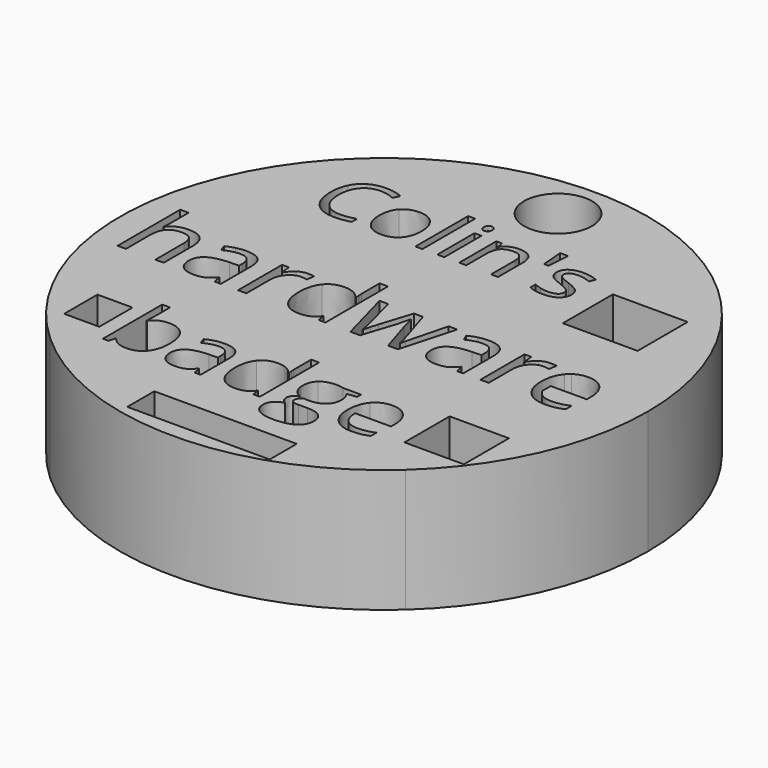
from build123d import *

# Parameters (mm, degrees)
F0_W     = 0.5073064225
F0_H     = 3.3478314006
F0_H_2   = 4.7534318543
F0_W_2   = 10.2797708241
F0_H_3   = 2.4410765618
F1_DEPTH = 8.89


with BuildPart() as f1:
    # F0 (on Top) → F1 (new body)
    with BuildSketch(Plane.XY):
        with BuildLine():
            ThreePointArc((12.8299963961, -14.0816793202), (17.4257558135, -7.6971120771), (19.05, 0))
            ThreePointArc((19.05, 0), (17.4257558135, 7.6971120771), (12.8299963961, 14.0816793202))
            Line((12.8299963961, 14.0816793202), (12.8299963961, 9.9383760244))
            Line((12.8299963961, 9.9383760244), (13.9713427052, 9.9383760244))
            Line((13.9713427052, 9.9383760244), (13.9713427052, 5.4203812033))
            Line((13.9713427052, 5.4203812033), (12.8299963961, 5.4203812033))
            Line((12.8299963961, 5.4203812033), (12.8299963961, 0.8872769215))
            add(Edge.make_bspline(
                [(12.8299963961, 0.8872769215), (13.2364570431, 1.1805184719), (13.8113436061, 1.1805184719)],
                knots=[0.2801248744, 0.2801248744, 0.2801248744, 1, 1, 1], degree=2))
            add(Edge.make_bspline(
                [(13.8113436061, 1.1805184719), (14.5577021785, 1.1805184719), (14.9929812837, 0.6889432691)],
                knots=[0, 0, 0, 1, 1, 1], degree=2))
            add(Edge.make_bspline(
                [(14.9929812837, 0.6889432691), (15.4282603889, 0.1973680663), (15.4282603889, -0.6081884644)],
                knots=[0, 0, 0, 1, 1, 1], degree=2))
            Line((15.4282603889, -0.6081884644), (15.4282603889, -0.9889125884))
            Line((15.4282603889, -0.9889125884), (12.8299963961, -0.9889125884))
            Line((12.8299963961, -0.9889125884), (12.8299963961, -1.7158638181))
            add(Edge.make_bspline(
                [(12.8299963961, -1.7158638181), (12.9127583487, -1.9095613389), (13.0440916367, -2.0515739773)],
                knots=[0.6084921973, 0.6084921973, 0.6084921973, 1, 1, 1], degree=2))
            add(Edge.make_bspline(
                [(13.0440916367, -2.0515739773), (13.3795467338, -2.4143065649), (13.9889374811, -2.4143065649)],
                knots=[0, 0, 0, 1, 1, 1], degree=2))
            add(Edge.make_bspline(
                [(13.9889374811, -2.4143065649), (14.6308290682, -2.4143065649), (15.2576309797, -2.1461746361)],
                knots=[0, 0, 0, 1, 1, 1], degree=2))
            Line((15.2576309797, -2.1461746361), (15.2576309797, -2.683599238))
            add(Edge.make_bspline(
                [(15.2576309797, -2.683599238), (14.9384263026, -2.8205670631), (14.6540439538, -2.8809257657)],
                knots=[0, 0, 0, 1, 1, 1], degree=2))
            add(Edge.make_bspline(
                [(14.6540439538, -2.8809257657), (14.3696616051, -2.9412844683), (13.9668833397, -2.9412844683)],
                knots=[0, 0, 0, 1, 1, 1], degree=2))
            add(Edge.make_bspline(
                [(13.9668833397, -2.9412844683), (13.2884940449, -2.9412844683), (12.8299963961, -2.6226308466)],
                knots=[0, 0, 0, 0.7700176105, 0.7700176105, 0.7700176105], degree=2))
            Line((12.8299963961, -2.6226308466), (12.8299963961, -7.4412599206))
            Line((12.8299963961, -7.4412599206), (14.9729559198, -7.4412599206))
            Line((14.9729559198, -7.4412599206), (14.9729559198, -11.5108992904))
            Line((14.9729559198, -11.5108992904), (12.8299963961, -11.5108992904))
            Line((12.8299963961, -11.5108992904), (12.8299963961, -14.0816793202))
        make_face()
        with BuildLine():
            Line((1.8340394776, 14.0816793202), (12.8299963961, 14.0816793202))
            ThreePointArc((12.8299963961, 14.0816793202), (0, 19.05), (-12.8299963961, 14.0816793202))
            Line((-12.8299963961, 14.0816793202), (-1.8340394776, 14.0816793202))
            ThreePointArc((-1.8340394776, 14.0816793202), (-0.8675546653, 17.9941748635), (2.4487597285, 15.7042462379))
            ThreePointArc((2.4487597285, 15.7042462379), (2.2899286257, 14.8366915726), (1.8340394776, 14.0816793202))
        make_face()
        with BuildLine():
            Line((12.8299963961, 9.9383760244), (12.8299963961, 14.0816793202))
            Line((12.8299963961, 14.0816793202), (1.8340394776, 14.0816793202))
            ThreePointArc((1.8340394776, 14.0816793202), (0, 13.2554865094), (-1.8340394776, 14.0816793202))
            Line((-1.8340394776, 14.0816793202), (-12.8299963961, 14.0816793202))
            Line((-12.8299963961, 14.0816793202), (-12.8299963961, -8.2348110154))
            Line((-12.8299963961, -8.2348110154), (-11.5638854583, -8.2348110154))
            Line((-11.5638854583, -8.2348110154), (-11.5638854583, -11.2371081486))
            Line((-11.5638854583, -11.2371081486), (-12.8299963961, -11.2371081486))
            Line((-12.8299963961, -11.2371081486), (-12.8299963961, -14.0816793202))
            Line((-12.8299963961, -14.0816793202), (12.8299963961, -14.0816793202))
            Line((12.8299963961, -14.0816793202), (12.8299963961, -11.5108992904))
            Line((12.8299963961, -11.5108992904), (10.6870368724, -11.5108992904))
            Line((10.6870368724, -11.5108992904), (10.6870368724, -7.4412599206))
            Line((10.6870368724, -7.4412599206), (12.8299963961, -7.4412599206))
            Line((12.8299963961, -7.4412599206), (12.8299963961, -2.6226308466))
            add(Edge.make_bspline(
                [(12.8299963961, -2.6226308466), (12.6930561711, -2.5274580605), (12.5757313195, -2.4038598664)],
                knots=[0.7700176105, 0.7700176105, 0.7700176105, 1, 1, 1], degree=2))
            add(Edge.make_bspline(
                [(12.5757313195, -2.4038598664), (12.0655842082, -1.8664352645), (12.0655842082, -0.9134642102)],
                knots=[0, 0, 0, 1, 1, 1], degree=2))
            add(Edge.make_bspline(
                [(12.0655842082, -0.9134642102), (12.0655842082, 0.0487927984), (12.5391678747, 0.6146556351)],
                knots=[0, 0, 0, 1, 1, 1], degree=2))
            add(Edge.make_bspline(
                [(12.5391678747, 0.6146556351), (12.6718304398, 0.7731678912), (12.8299963961, 0.8872769215)],
                knots=[0, 0, 0, 0.2801248744, 0.2801248744, 0.2801248744], degree=2))
            Line((12.8299963961, 0.8872769215), (12.8299963961, 5.4203812033))
            Line((12.8299963961, 5.4203812033), (8.571988903, 5.4203812033))
            Line((8.571988903, 5.4203812033), (8.571988903, 9.9383760244))
            Line((8.571988903, 9.9383760244), (12.8299963961, 9.9383760244))
        make_face()
        with BuildLine():
            add(Edge.make_bspline(
                [(-9.9190947652, -8.9869904447), (-9.5210205745, -8.423968385), (-8.7369683703, -8.423968385)],
                knots=[0, 0, 0, 1, 1, 1], degree=2))
            add(Edge.make_bspline(
                [(-8.7369683703, -8.423968385), (-7.9947029596, -8.423968385), (-7.5839827656, -8.9309081692)],
                knots=[0, 0, 0, 1, 1, 1], degree=2))
            add(Edge.make_bspline(
                [(-7.5839827656, -8.9309081692), (-7.1732625717, -9.4378479534), (-7.1732625717, -10.3648549775)],
                knots=[0, 0, 0, 1, 1, 1], degree=2))
            add(Edge.make_bspline(
                [(-7.1732625717, -10.3648549775), (-7.1732625717, -11.2929616541), (-7.587281723, -11.8070491793)],
                knots=[0, 0, 0, 1, 1, 1], degree=2))
            add(Edge.make_bspline(
                [(-7.587281723, -11.8070491793), (-8.0013008743, -12.3211367045), (-8.7369683703, -12.3211367045)],
                knots=[0, 0, 0, 1, 1, 1], degree=2))
            add(Edge.make_bspline(
                [(-8.7369683703, -12.3211367045), (-9.1053519445, -12.3211367045), (-9.4094058498, -12.1853296256)],
                knots=[0, 0, 0, 1, 1, 1], degree=2))
            add(Edge.make_bspline(
                [(-9.4094058498, -12.1853296256), (-9.7134597551, -12.0495225468), (-9.9190947652, -11.7669118645)],
                knots=[0, 0, 0, 1, 1, 1], degree=2))
            Line((-9.9190947652, -11.7669118645), (-9.9608815587, -11.7669118645))
            Line((-9.9608815587, -11.7669118645), (-10.0807436769, -12.2518585995))
            Line((-10.0807436769, -12.2518585995), (-10.4898143921, -12.2518585995))
            Line((-10.4898143921, -12.2518585995), (-10.4898143921, -6.9042486848))
            Line((-10.4898143921, -6.9042486848), (-9.9190947652, -6.9042486848))
            Line((-9.9190947652, -6.9042486848), (-9.9190947652, -8.2040378929))
            add(Edge.make_bspline(
                [(-9.9190947652, -8.2040378929), (-9.9190947652, -8.6405999197), (-9.9465860767, -8.9869904447)],
                knots=[0, 0, 0, 1, 1, 1], degree=2))
            Line((-9.9465860767, -8.9869904447), (-9.9190947652, -8.9869904447))
        make_face(mode=Mode.SUBTRACT)
        with BuildLine():
            Line((-3.4377431639, -12.2518585995), (-3.8611093611, -12.2518585995))
            Line((-3.8611093611, -12.2518585995), (-3.9743735645, -11.7152281988))
            Line((-3.9743735645, -11.7152281988), (-4.001864876, -11.7152281988))
            add(Edge.make_bspline(
                [(-4.001864876, -11.7152281988), (-4.2833759059, -12.0693162911), (-4.5632374571, -12.1952264978)],
                knots=[0, 0, 0, 1, 1, 1], degree=2))
            add(Edge.make_bspline(
                [(-4.5632374571, -12.1952264978), (-4.8430990082, -12.3211367045), (-5.2631662481, -12.3211367045)],
                knots=[0, 0, 0, 1, 1, 1], degree=2))
            add(Edge.make_bspline(
                [(-5.2631662481, -12.3211367045), (-5.8228893504, -12.3211367045), (-6.1406889114, -12.0319281074)],
                knots=[0, 0, 0, 1, 1, 1], degree=2))
            add(Edge.make_bspline(
                [(-6.1406889114, -12.0319281074), (-6.4584884725, -11.7427195103), (-6.4584884725, -11.2104877195)],
                knots=[0, 0, 0, 1, 1, 1], degree=2))
            add(Edge.make_bspline(
                [(-6.4584884725, -11.2104877195), (-6.4584884725, -10.0701481182), (-4.6341650407, -10.0151654951)],
                knots=[0, 0, 0, 1, 1, 1], degree=2))
            Line((-4.6341650407, -10.0151654951), (-3.9952669613, -9.9942720984))
            Line((-3.9952669613, -9.9942720984), (-3.9952669613, -9.7600461243))
            add(Edge.make_bspline(
                [(-3.9952669613, -9.7600461243), (-3.9952669613, -9.3168861828), (-4.1855068369, -9.1057529104)],
                knots=[0, 0, 0, 1, 1, 1], degree=2))
            add(Edge.make_bspline(
                [(-4.1855068369, -9.1057529104), (-4.3757467126, -8.894619638), (-4.7958139524, -8.894619638)],
                knots=[0, 0, 0, 1, 1, 1], degree=2))
            add(Edge.make_bspline(
                [(-4.7958139524, -8.894619638), (-5.2664652054, -8.894619638), (-5.860277534, -9.1827285826)],
                knots=[0, 0, 0, 1, 1, 1], degree=2))
            Line((-5.860277534, -9.1827285826), (-6.0362219277, -8.7461665559))
            add(Edge.make_bspline(
                [(-6.0362219277, -8.7461665559), (-5.7580098552, -8.5955141688), (-5.4264646384, -8.5097412769)],
                knots=[0, 0, 0, 1, 1, 1], degree=2))
            add(Edge.make_bspline(
                [(-5.4264646384, -8.5097412769), (-5.0949194216, -8.423968385), (-4.7606250737, -8.423968385)],
                knots=[0, 0, 0, 1, 1, 1], degree=2))
            add(Edge.make_bspline(
                [(-4.7606250737, -8.423968385), (-4.087637768, -8.423968385), (-3.7626904659, -8.722524028)],
                knots=[0, 0, 0, 1, 1, 1], degree=2))
            add(Edge.make_bspline(
                [(-3.7626904659, -8.722524028), (-3.4377431639, -9.021079671), (-3.4377431639, -9.6808711472)],
                knots=[0, 0, 0, 1, 1, 1], degree=2))
            Line((-3.4377431639, -9.6808711472), (-3.4377431639, -12.2518585995))
        make_face(mode=Mode.SUBTRACT)
        with BuildLine():
            Line((0.3758515686, -12.2518585995), (0.2999755488, -11.7471181202))
            Line((0.2999755488, -11.7471181202), (0.26918528, -11.7471181202))
            add(Edge.make_bspline(
                [(0.26918528, -11.7471181202), (-0.1255899533, -12.3211367045), (-0.9129411149, -12.3211367045)],
                knots=[0, 0, 0, 1, 1, 1], degree=2))
            add(Edge.make_bspline(
                [(-0.9129411149, -12.3211367045), (-1.6519075683, -12.3211367045), (-2.0626277622, -11.815846399)],
                knots=[0, 0, 0, 1, 1, 1], degree=2))
            add(Edge.make_bspline(
                [(-2.0626277622, -11.815846399), (-2.4733479562, -11.3105560934), (-2.4733479562, -10.3791504595)],
                knots=[0, 0, 0, 1, 1, 1], degree=2))
            add(Edge.make_bspline(
                [(-2.4733479562, -10.3791504595), (-2.4733479562, -9.4477448256), (-2.0609782835, -8.9320078217)],
                knots=[0, 0, 0, 1, 1, 1], degree=2))
            add(Edge.make_bspline(
                [(-2.0609782835, -8.9320078217), (-1.6486086109, -8.4162708178), (-0.9129411149, -8.4162708178)],
                knots=[0, 0, 0, 1, 1, 1], degree=2))
            add(Edge.make_bspline(
                [(-0.9129411149, -8.4162708178), (-0.1464833501, -8.4162708178), (0.2625873652, -8.9737946152)],
                knots=[0, 0, 0, 1, 1, 1], degree=2))
            Line((0.2625873652, -8.9737946152), (0.3076731161, -8.9737946152))
            Line((0.3076731161, -8.9737946152), (0.2834807619, -8.7021804575))
            Line((0.2834807619, -8.7021804575), (0.26918528, -8.4371642145))
            Line((0.26918528, -8.4371642145), (0.26918528, -6.9042486848))
            Line((0.26918528, -6.9042486848), (0.8399049069, -6.9042486848))
            Line((0.8399049069, -6.9042486848), (0.8399049069, -12.2518585995))
            Line((0.8399049069, -12.2518585995), (0.3758515686, -12.2518585995))
        make_face(mode=Mode.SUBTRACT)
        with BuildLine():
            Line((-9.4801511273, -2.8681575786), (-9.9270376753, -2.8681575786))
            Line((-9.9270376753, -2.8681575786), (-10.0465943362, -2.3017143697))
            Line((-10.0465943362, -2.3017143697), (-10.0756129432, -2.3017143697))
            add(Edge.make_bspline(
                [(-10.0756129432, -2.3017143697), (-10.372763479, -2.6754740281), (-10.6681728984, -2.8083792482)],
                knots=[0, 0, 0, 1, 1, 1], degree=2))
            add(Edge.make_bspline(
                [(-10.6681728984, -2.8083792482), (-10.9635823178, -2.9412844683), (-11.406986633, -2.9412844683)],
                knots=[0, 0, 0, 1, 1, 1], degree=2))
            add(Edge.make_bspline(
                [(-11.406986633, -2.9412844683), (-11.9978054718, -2.9412844683), (-12.3332605688, -2.6360087225)],
                knots=[0, 0, 0, 1, 1, 1], degree=2))
            add(Edge.make_bspline(
                [(-12.3332605688, -2.6360087225), (-12.6687156659, -2.3307329767), (-12.6687156659, -1.768932745)],
                knots=[0, 0, 0, 1, 1, 1], degree=2))
            add(Edge.make_bspline(
                [(-12.6687156659, -1.768932745), (-12.6687156659, -0.565240926), (-10.7430409045, -0.507203712)],
                knots=[0, 0, 0, 1, 1, 1], degree=2))
            Line((-10.7430409045, -0.507203712), (-10.0686484775, -0.4851495707))
            Line((-10.0686484775, -0.4851495707), (-10.0686484775, -0.2379110389))
            add(Edge.make_bspline(
                [(-10.0686484775, -0.2379110389), (-10.0686484775, 0.2298689061), (-10.269457238, 0.452731808)],
                knots=[0, 0, 0, 1, 1, 1], degree=2))
            add(Edge.make_bspline(
                [(-10.269457238, 0.452731808), (-10.4702659986, 0.6755947099), (-10.9136703137, 0.6755947099)],
                knots=[0, 0, 0, 1, 1, 1], degree=2))
            add(Edge.make_bspline(
                [(-10.9136703137, 0.6755947099), (-11.4104688658, 0.6755947099), (-12.0372707773, 0.3714797084)],
                knots=[0, 0, 0, 1, 1, 1], degree=2))
            Line((-12.0372707773, 0.3714797084), (-12.2229898622, 0.8322951877))
            add(Edge.make_bspline(
                [(-12.2229898622, 0.8322951877), (-11.9293215592, 0.9913171542), (-11.5793571586, 1.0818552081)],
                knots=[0, 0, 0, 1, 1, 1], degree=2))
            add(Edge.make_bspline(
                [(-11.5793571586, 1.0818552081), (-11.229392758, 1.1723932619), (-10.8765264968, 1.1723932619)],
                knots=[0, 0, 0, 1, 1, 1], degree=2))
            add(Edge.make_bspline(
                [(-10.8765264968, 1.1723932619), (-10.1661509971, 1.1723932619), (-9.8231510622, 0.8572511898)],
                knots=[0, 0, 0, 1, 1, 1], degree=2))
            add(Edge.make_bspline(
                [(-9.8231510622, 0.8572511898), (-9.4801511273, 0.5421091176), (-9.4801511273, -0.1543374507)],
                knots=[0, 0, 0, 1, 1, 1], degree=2))
            Line((-9.4801511273, -0.1543374507), (-9.4801511273, -2.8681575786))
        make_face(mode=Mode.SUBTRACT)
        with BuildLine():
            add(Edge.make_bspline(
                [(-7.112232795, 0.969843385), (-6.7999925835, 1.1805184719), (-6.4262329252, 1.1805184719)],
                knots=[0, 0, 0, 1, 1, 1], degree=2))
            add(Edge.make_bspline(
                [(-6.4262329252, 1.1805184719), (-6.1615832292, 1.1805184719), (-5.9514885144, 1.1364101892)],
                knots=[0, 0, 0, 1, 1, 1], degree=2))
            Line((-5.9514885144, 1.1364101892), (-6.0350621026, 0.5780921903))
            add(Edge.make_bspline(
                [(-6.0350621026, 0.5780921903), (-6.2811398901, 0.6326471715), (-6.4703412078, 0.6326471715)],
                knots=[0, 0, 0, 1, 1, 1], degree=2))
            add(Edge.make_bspline(
                [(-6.4703412078, 0.6326471715), (-6.9532108285, 0.6326471715), (-7.2956303913, 0.2408959768)],
                knots=[0, 0, 0, 1, 1, 1], degree=2))
            add(Edge.make_bspline(
                [(-7.2956303913, 0.2408959768), (-7.638049954, -0.1508552179), (-7.638049954, -0.734709591)],
                knots=[0, 0, 0, 1, 1, 1], degree=2))
            Line((-7.638049954, -0.734709591), (-7.638049954, -2.8681575786))
            Line((-7.638049954, -2.8681575786), (-8.2404762356, -2.8681575786))
            Line((-8.2404762356, -2.8681575786), (-8.2404762356, 1.1073915822))
            Line((-8.2404762356, 1.1073915822), (-7.7436776836, 1.1073915822))
            Line((-7.7436776836, 1.1073915822), (-7.6740330267, 0.3714797084))
            Line((-7.6740330267, 0.3714797084), (-7.6450144197, 0.3714797084))
            add(Edge.make_bspline(
                [(-7.6450144197, 0.3714797084), (-7.4244730064, 0.7591682981), (-7.112232795, 0.969843385)],
                knots=[0, 0, 0, 1, 1, 1], degree=2))
        make_face(mode=Mode.SUBTRACT)
        with BuildLine():
            Line((-2.4216651573, -2.8681575786), (-2.5017565126, -2.3353759539))
            Line((-2.5017565126, -2.3353759539), (-2.5342573525, -2.3353759539))
            add(Edge.make_bspline(
                [(-2.5342573525, -2.3353759539), (-2.9509645492, -2.9412844683), (-3.7820574541, -2.9412844683)],
                knots=[0, 0, 0, 1, 1, 1], degree=2))
            add(Edge.make_bspline(
                [(-3.7820574541, -2.9412844683), (-4.5620776106, -2.9412844683), (-4.9956155994, -2.4079224714)],
                knots=[0, 0, 0, 1, 1, 1], degree=2))
            add(Edge.make_bspline(
                [(-4.9956155994, -2.4079224714), (-5.4291535882, -1.8745604745), (-5.4291535882, -0.8914100689)],
                knots=[0, 0, 0, 1, 1, 1], degree=2))
            add(Edge.make_bspline(
                [(-5.4291535882, -0.8914100689), (-5.4291535882, 0.0917403368), (-4.993874483, 0.6361294043)],
                knots=[0, 0, 0, 1, 1, 1], degree=2))
            add(Edge.make_bspline(
                [(-4.993874483, 0.6361294043), (-4.5585953778, 1.1805184719), (-3.7820574541, 1.1805184719)],
                knots=[0, 0, 0, 1, 1, 1], degree=2))
            add(Edge.make_bspline(
                [(-3.7820574541, 1.1805184719), (-2.9730186905, 1.1805184719), (-2.5412218182, 0.5920211217)],
                knots=[0, 0, 0, 1, 1, 1], degree=2))
            Line((-2.5412218182, 0.5920211217), (-2.4936313027, 0.5920211217))
            Line((-2.4936313027, 0.5920211217), (-2.5191676768, 0.878724959))
            Line((-2.5191676768, 0.878724959), (-2.5342573525, 1.1584643306))
            Line((-2.5342573525, 1.1584643306), (-2.5342573525, 2.7765418577))
            Line((-2.5342573525, 2.7765418577), (-1.9318310709, 2.7765418577))
            Line((-1.9318310709, 2.7765418577), (-1.9318310709, -2.8681575786))
            Line((-1.9318310709, -2.8681575786), (-2.4216651573, -2.8681575786))
        make_face(mode=Mode.SUBTRACT)
        with BuildLine():
            Line((3.8298599466, -8.4855489228), (5.1318484596, -8.4855489228))
            Line((5.1318484596, -8.4855489228), (5.1318484596, -8.8462349298))
            Line((5.1318484596, -8.8462349298), (4.4346687998, -8.9287088643))
            add(Edge.make_bspline(
                [(4.4346687998, -8.9287088643), (4.5303385638, -9.0485709825), (4.6062145836, -9.243209468)],
                knots=[0, 0, 0, 1, 1, 1], degree=2))
            add(Edge.make_bspline(
                [(4.6062145836, -9.243209468), (4.6820906033, -9.4378479534), (4.6820906033, -9.6808711472)],
                knots=[0, 0, 0, 1, 1, 1], degree=2))
            add(Edge.make_bspline(
                [(4.6820906033, -9.6808711472), (4.6820906033, -10.2350959872), (4.303810157, -10.5649917253)],
                knots=[0, 0, 0, 1, 1, 1], degree=2))
            add(Edge.make_bspline(
                [(4.303810157, -10.5649917253), (3.9255297106, -10.8948874634), (3.2657382344, -10.8948874634)],
                knots=[0, 0, 0, 1, 1, 1], degree=2))
            add(Edge.make_bspline(
                [(3.2657382344, -10.8948874634), (3.097491408, -10.8948874634), (2.9501379783, -10.8673961519)],
                knots=[0, 0, 0, 1, 1, 1], degree=2))
            add(Edge.make_bspline(
                [(2.9501379783, -10.8673961519), (2.5861530139, -11.0598353325), (2.5861530139, -11.3512432345)],
                knots=[0, 0, 0, 1, 1, 1], degree=2))
            add(Edge.make_bspline(
                [(2.5861530139, -11.3512432345), (2.5861530139, -11.5062942314), (2.7131628731, -11.5799709462)],
                knots=[0, 0, 0, 1, 1, 1], degree=2))
            add(Edge.make_bspline(
                [(2.7131628731, -11.5799709462), (2.8401727322, -11.6536476611), (3.1491750736, -11.6536476611)],
                knots=[0, 0, 0, 1, 1, 1], degree=2))
            Line((3.1491750736, -11.6536476611), (3.8155644646, -11.6536476611))
            add(Edge.make_bspline(
                [(3.8155644646, -11.6536476611), (4.428070885, -11.6536476611), (4.7557673182, -11.911516163)],
                knots=[0, 0, 0, 1, 1, 1], degree=2))
            add(Edge.make_bspline(
                [(4.7557673182, -11.911516163), (5.0834637514, -12.169384665), (5.0834637514, -12.6609293147)],
                knots=[0, 0, 0, 1, 1, 1], degree=2))
            add(Edge.make_bspline(
                [(5.0834637514, -12.6609293147), (5.0834637514, -13.2866315647), (4.5820222294, -13.6148778241)],
                knots=[0, 0, 0, 1, 1, 1], degree=2))
            add(Edge.make_bspline(
                [(4.5820222294, -13.6148778241), (4.0805807075, -13.9431240835), (3.1183848047, -13.9431240835)],
                knots=[0, 0, 0, 1, 1, 1], degree=2))
            add(Edge.make_bspline(
                [(3.1183848047, -13.9431240835), (2.3794183514, -13.9431240835), (1.9791448558, -13.6682109684)],
                knots=[0, 0, 0, 1, 1, 1], degree=2))
            add(Edge.make_bspline(
                [(1.9791448558, -13.6682109684), (1.5788713602, -13.3932978533), (1.5788713602, -12.8907566789)],
                knots=[0, 0, 0, 1, 1, 1], degree=2))
            add(Edge.make_bspline(
                [(1.5788713602, -12.8907566789), (1.5788713602, -12.5476651113), (1.7988018523, -12.2963945241)],
                knots=[0, 0, 0, 1, 1, 1], degree=2))
            add(Edge.make_bspline(
                [(1.7988018523, -12.2963945241), (2.0187323444, -12.0451239369), (2.416806535, -11.9560520876)],
                knots=[0, 0, 0, 1, 1, 1], degree=2))
            add(Edge.make_bspline(
                [(2.416806535, -11.9560520876), (2.2727520627, -11.8911725925), (2.1748829937, -11.7537160349)],
                knots=[0, 0, 0, 1, 1, 1], degree=2))
            add(Edge.make_bspline(
                [(2.1748829937, -11.7537160349), (2.0770139248, -11.6162594774), (2.0770139248, -11.433717169)],
                knots=[0, 0, 0, 1, 1, 1], degree=2))
            add(Edge.make_bspline(
                [(2.0770139248, -11.433717169), (2.0770139248, -11.2280821589), (2.1869791708, -11.073031162)],
                knots=[0, 0, 0, 1, 1, 1], degree=2))
            add(Edge.make_bspline(
                [(2.1869791708, -11.073031162), (2.2969444168, -10.9179801651), (2.5344693483, -10.7739256928)],
                knots=[0, 0, 0, 1, 1, 1], degree=2))
            add(Edge.make_bspline(
                [(2.5344693483, -10.7739256928), (2.2419617938, -10.6540635746), (2.0583198329, -10.3654048038)],
                knots=[0, 0, 0, 1, 1, 1], degree=2))
            add(Edge.make_bspline(
                [(2.0583198329, -10.3654048038), (1.8746778721, -10.0767460329), (1.8746778721, -9.7050635013)],
                knots=[0, 0, 0, 1, 1, 1], degree=2))
            add(Edge.make_bspline(
                [(1.8746778721, -9.7050635013), (1.8746778721, -9.0870588186), (2.2458105774, -8.7516648182)],
                knots=[0, 0, 0, 1, 1, 1], degree=2))
            add(Edge.make_bspline(
                [(2.2458105774, -8.7516648182), (2.6169432828, -8.4162708178), (3.2965285033, -8.4162708178)],
                knots=[0, 0, 0, 1, 1, 1], degree=2))
            add(Edge.make_bspline(
                [(3.2965285033, -8.4162708178), (3.5923350151, -8.4162708178), (3.8298599466, -8.4855489228)],
                knots=[0, 0, 0, 1, 1, 1], degree=2))
        make_face(mode=Mode.SUBTRACT)
        with BuildLine():
            add(Edge.make_bspline(
                [(8.1470955059, -12.2639547765), (7.8776806531, -12.3211367045), (7.4961012494, -12.3211367045)],
                knots=[0, 0, 0, 1, 1, 1], degree=2))
            add(Edge.make_bspline(
                [(7.4961012494, -12.3211367045), (6.661465032, -12.3211367045), (6.1781677756, -11.8119976153)],
                knots=[0, 0, 0, 1, 1, 1], degree=2))
            add(Edge.make_bspline(
                [(6.1781677756, -11.8119976153), (5.6948705193, -11.3028585262), (5.6948705193, -10.4000438563)],
                knots=[0, 0, 0, 1, 1, 1], degree=2))
            add(Edge.make_bspline(
                [(5.6948705193, -10.4000438563), (5.6948705193, -9.4884319666), (6.1435287231, -8.9523513922)],
                knots=[0, 0, 0, 1, 1, 1], degree=2))
            add(Edge.make_bspline(
                [(6.1435287231, -8.9523513922), (6.592186927, -8.4162708178), (7.3487478197, -8.4162708178)],
                knots=[0, 0, 0, 1, 1, 1], degree=2))
            add(Edge.make_bspline(
                [(7.3487478197, -8.4162708178), (8.0558243517, -8.4162708178), (8.4681940243, -8.8819736347)],
                knots=[0, 0, 0, 1, 1, 1], degree=2))
            add(Edge.make_bspline(
                [(8.4681940243, -8.8819736347), (8.8805636969, -9.3476764517), (8.8805636969, -10.1108352592)],
                knots=[0, 0, 0, 1, 1, 1], degree=2))
            Line((8.8805636969, -10.1108352592), (8.8805636969, -10.4715212662))
            Line((8.8805636969, -10.4715212662), (6.286483543, -10.4715212662))
            add(Edge.make_bspline(
                [(6.286483543, -10.4715212662), (6.3040779823, -11.1346116998), (6.6218775434, -11.4782530936)],
                knots=[0, 0, 0, 1, 1, 1], degree=2))
            add(Edge.make_bspline(
                [(6.6218775434, -11.4782530936), (6.9396771044, -11.8218944875), (7.5169946461, -11.8218944875)],
                knots=[0, 0, 0, 1, 1, 1], degree=2))
            add(Edge.make_bspline(
                [(7.5169946461, -11.8218944875), (8.1251024567, -11.8218944875), (8.7189147853, -11.5678747691)],
                knots=[0, 0, 0, 1, 1, 1], degree=2))
            Line((8.7189147853, -11.5678747691), (8.7189147853, -12.0770138583))
            add(Edge.make_bspline(
                [(8.7189147853, -12.0770138583), (8.4165103587, -12.2067728486), (8.1470955059, -12.2639547765)],
                knots=[0, 0, 0, 1, 1, 1], degree=2))
        make_face(mode=Mode.SUBTRACT)
        with BuildLine():
            Line((3.3066078672, -2.8681575786), (2.5915893904, -2.8681575786))
            Line((2.5915893904, -2.8681575786), (1.8626419822, -0.536222319))
            add(Edge.make_bspline(
                [(1.8626419822, -0.536222319), (1.7929973254, -0.3214846271), (1.6049567519, 0.4364813881)],
                knots=[0, 0, 0, 1, 1, 1], degree=2))
            Line((1.6049567519, 0.4364813881), (1.5759381449, 0.4364813881))
            add(Edge.make_bspline(
                [(1.5759381449, 0.4364813881), (1.4308451099, -0.1984457334), (1.3217351475, -0.5431867847)],
                knots=[0, 0, 0, 1, 1, 1], degree=2))
            Line((1.3217351475, -0.5431867847), (0.570733598, -2.8681575786))
            Line((0.570733598, -2.8681575786), (-0.1257129704, -2.8681575786))
            Line((-0.1257129704, -2.8681575786), (-1.2098481284, 1.1073915822))
            Line((-1.2098481284, 1.1073915822), (-0.5784032398, 1.1073915822))
            add(Edge.make_bspline(
                [(-0.5784032398, 1.1073915822), (-0.1941968829, -0.3911292839), (0.0071922498, -1.1746316733)],
                knots=[0, 0, 0, 1, 1, 1], degree=2))
            add(Edge.make_bspline(
                [(0.0071922498, -1.1746316733), (0.2085813824, -1.9581340627), (0.2375999895, -2.2297482243)],
                knots=[0, 0, 0, 1, 1, 1], degree=2))
            Line((0.2375999895, -2.2297482243), (0.2666185965, -2.2297482243))
            add(Edge.make_bspline(
                [(0.2666185965, -2.2297482243), (0.306083902, -2.0231357424), (0.3948808395, -1.694645111)],
                knots=[0, 0, 0, 1, 1, 1], degree=2))
            add(Edge.make_bspline(
                [(0.3948808395, -1.694645111), (0.4836777769, -1.3661544796), (0.5498402009, -1.1746316733)],
                knots=[0, 0, 0, 1, 1, 1], degree=2))
            Line((0.5498402009, -1.1746316733), (1.2787876091, 1.1073915822))
            Line((1.2787876091, 1.1073915822), (1.9311258948, 1.1073915822))
            Line((1.9311258948, 1.1073915822), (2.6426621387, -1.1746316733))
            add(Edge.make_bspline(
                [(2.6426621387, -1.1746316733), (2.8457923878, -1.797951352), (2.9177585332, -2.2227837586)],
                knots=[0, 0, 0, 1, 1, 1], degree=2))
            Line((2.9177585332, -2.2227837586), (2.9467771402, -2.2227837586))
            add(Edge.make_bspline(
                [(2.9467771402, -2.2227837586), (2.9618668159, -2.0916196549), (3.0251273792, -1.8194251212)],
                knots=[0, 0, 0, 1, 1, 1], degree=2))
            add(Edge.make_bspline(
                [(3.0251273792, -1.8194251212), (3.0883879425, -1.5472305874), (3.781352278, 1.1073915822)],
                knots=[0, 0, 0, 1, 1, 1], degree=2))
            Line((3.781352278, 1.1073915822), (4.4046719566, 1.1073915822))
            Line((4.4046719566, 1.1073915822), (3.3066078672, -2.8681575786))
        make_face(mode=Mode.SUBTRACT)
        with BuildLine():
            Line((8.0145866691, -2.8681575786), (7.5677001211, -2.8681575786))
            Line((7.5677001211, -2.8681575786), (7.4481434602, -2.3017143697))
            Line((7.4481434602, -2.3017143697), (7.4191248532, -2.3017143697))
            add(Edge.make_bspline(
                [(7.4191248532, -2.3017143697), (7.1219743174, -2.6754740281), (6.826564898, -2.8083792482)],
                knots=[0, 0, 0, 1, 1, 1], degree=2))
            add(Edge.make_bspline(
                [(6.826564898, -2.8083792482), (6.5311554786, -2.9412844683), (6.0877511634, -2.9412844683)],
                knots=[0, 0, 0, 1, 1, 1], degree=2))
            add(Edge.make_bspline(
                [(6.0877511634, -2.9412844683), (5.4969323246, -2.9412844683), (5.1614772275, -2.6360087225)],
                knots=[0, 0, 0, 1, 1, 1], degree=2))
            add(Edge.make_bspline(
                [(5.1614772275, -2.6360087225), (4.8260221304, -2.3307329767), (4.8260221304, -1.768932745)],
                knots=[0, 0, 0, 1, 1, 1], degree=2))
            add(Edge.make_bspline(
                [(4.8260221304, -1.768932745), (4.8260221304, -0.565240926), (6.7516968919, -0.507203712)],
                knots=[0, 0, 0, 1, 1, 1], degree=2))
            Line((6.7516968919, -0.507203712), (7.4260893189, -0.4851495707))
            Line((7.4260893189, -0.4851495707), (7.4260893189, -0.2379110389))
            add(Edge.make_bspline(
                [(7.4260893189, -0.2379110389), (7.4260893189, 0.2298689061), (7.2252805583, 0.452731808)],
                knots=[0, 0, 0, 1, 1, 1], degree=2))
            add(Edge.make_bspline(
                [(7.2252805583, 0.452731808), (7.0244717978, 0.6755947099), (6.5810674826, 0.6755947099)],
                knots=[0, 0, 0, 1, 1, 1], degree=2))
            add(Edge.make_bspline(
                [(6.5810674826, 0.6755947099), (6.0842689306, 0.6755947099), (5.4574670191, 0.3714797084)],
                knots=[0, 0, 0, 1, 1, 1], degree=2))
            Line((5.4574670191, 0.3714797084), (5.2717479342, 0.8322951877))
            add(Edge.make_bspline(
                [(5.2717479342, 0.8322951877), (5.5654162372, 0.9913171542), (5.9153806377, 1.0818552081)],
                knots=[0, 0, 0, 1, 1, 1], degree=2))
            add(Edge.make_bspline(
                [(5.9153806377, 1.0818552081), (6.2653450383, 1.1723932619), (6.6182112996, 1.1723932619)],
                knots=[0, 0, 0, 1, 1, 1], degree=2))
            add(Edge.make_bspline(
                [(6.6182112996, 1.1723932619), (7.3285867993, 1.1723932619), (7.6715867342, 0.8572511898)],
                knots=[0, 0, 0, 1, 1, 1], degree=2))
            add(Edge.make_bspline(
                [(7.6715867342, 0.8572511898), (8.0145866691, 0.5421091176), (8.0145866691, -0.1543374507)],
                knots=[0, 0, 0, 1, 1, 1], degree=2))
            Line((8.0145866691, -0.1543374507), (8.0145866691, -2.8681575786))
        make_face(mode=Mode.SUBTRACT)
        with BuildLine():
            add(Edge.make_bspline(
                [(10.3825050014, 0.969843385), (10.6947452129, 1.1805184719), (11.0685048712, 1.1805184719)],
                knots=[0, 0, 0, 1, 1, 1], degree=2))
            add(Edge.make_bspline(
                [(11.0685048712, 1.1805184719), (11.3331545672, 1.1805184719), (11.543249282, 1.1364101892)],
                knots=[0, 0, 0, 1, 1, 1], degree=2))
            Line((11.543249282, 1.1364101892), (11.4596756938, 0.5780921903))
            add(Edge.make_bspline(
                [(11.4596756938, 0.5780921903), (11.2135979063, 0.6326471715), (11.0243965886, 0.6326471715)],
                knots=[0, 0, 0, 1, 1, 1], degree=2))
            add(Edge.make_bspline(
                [(11.0243965886, 0.6326471715), (10.5415269679, 0.6326471715), (10.1991074051, 0.2408959768)],
                knots=[0, 0, 0, 1, 1, 1], degree=2))
            add(Edge.make_bspline(
                [(10.1991074051, 0.2408959768), (9.8566878423, -0.1508552179), (9.8566878423, -0.734709591)],
                knots=[0, 0, 0, 1, 1, 1], degree=2))
            Line((9.8566878423, -0.734709591), (9.8566878423, -2.8681575786))
            Line((9.8566878423, -2.8681575786), (9.2542615607, -2.8681575786))
            Line((9.2542615607, -2.8681575786), (9.2542615607, 1.1073915822))
            Line((9.2542615607, 1.1073915822), (9.7510601128, 1.1073915822))
            Line((9.7510601128, 1.1073915822), (9.8207047696, 0.3714797084))
            Line((9.8207047696, 0.3714797084), (9.8497233766, 0.3714797084))
            add(Edge.make_bspline(
                [(9.8497233766, 0.3714797084), (10.07026479, 0.7591682981), (10.3825050014, 0.969843385)],
                knots=[0, 0, 0, 1, 1, 1], degree=2))
        make_face(mode=Mode.SUBTRACT)
        with BuildLine():
            add(Edge.make_bspline(
                [(-5.0729249662, 10.4894436253), (-4.6589668353, 10.0217246983), (-4.6589668353, 9.2250874453)],
                knots=[0, 0, 0, 1, 1, 1], degree=2))
            add(Edge.make_bspline(
                [(-4.6589668353, 9.2250874453), (-4.6589668353, 8.4059684048), (-5.0709700282, 7.9460692299)],
                knots=[0, 0, 0, 1, 1, 1], degree=2))
            add(Edge.make_bspline(
                [(-5.0709700282, 7.9460692299), (-5.482973221, 7.486170055), (-6.2102101734, 7.486170055)],
                knots=[0, 0, 0, 1, 1, 1], degree=2))
            add(Edge.make_bspline(
                [(-6.2102101734, 7.486170055), (-6.6598459235, 7.486170055), (-7.0078248954, 7.6973033638)],
                knots=[0, 0, 0, 1, 1, 1], degree=2))
            add(Edge.make_bspline(
                [(-7.0078248954, 7.6973033638), (-7.3558038672, 7.9084366726), (-7.5454328575, 8.3023566884)],
                knots=[0, 0, 0, 1, 1, 1], degree=2))
            add(Edge.make_bspline(
                [(-7.5454328575, 8.3023566884), (-7.7350618478, 8.6962767043), (-7.7350618478, 9.2250874453)],
                knots=[0, 0, 0, 1, 1, 1], degree=2))
            add(Edge.make_bspline(
                [(-7.7350618478, 9.2250874453), (-7.7350618478, 10.0432290167), (-7.3255023276, 10.5001957846)],
                knots=[0, 0, 0, 1, 1, 1], degree=2))
            add(Edge.make_bspline(
                [(-7.3255023276, 10.5001957846), (-6.9159428073, 10.9571625524), (-6.1887058549, 10.9571625524)],
                knots=[0, 0, 0, 1, 1, 1], degree=2))
            add(Edge.make_bspline(
                [(-6.1887058549, 10.9571625524), (-5.486883097, 10.9571625524), (-5.0729249662, 10.4894436253)],
                knots=[0, 0, 0, 1, 1, 1], degree=2))
        make_face(mode=Mode.SUBTRACT)
        with Locations((-1.9332944673, 9.2216663037)):
            Rectangle(F0_W, F0_H, mode=Mode.SUBTRACT)
        with BuildLine():
            add(Edge.make_bspline(
                [(-8.4926003399, 11.3755192938), (-8.9999067624, 11.6130442662), (-9.5072131848, 11.6130442662)],
                knots=[0, 0, 0, 1, 1, 1], degree=2))
            add(Edge.make_bspline(
                [(-9.5072131848, 11.6130442662), (-10.2432473584, 11.6130442662), (-10.6694238521, 11.1228435516)],
                knots=[0, 0, 0, 1, 1, 1], degree=2))
            add(Edge.make_bspline(
                [(-10.6694238521, 11.1228435516), (-11.0956003457, 10.6326428371), (-11.0956003457, 9.7802898498)],
                knots=[0, 0, 0, 1, 1, 1], degree=2))
            add(Edge.make_bspline(
                [(-11.0956003457, 9.7802898498), (-11.0956003457, 8.904477606), (-10.6845746219, 8.4260065197)],
                knots=[0, 0, 0, 1, 1, 1], degree=2))
            add(Edge.make_bspline(
                [(-10.6845746219, 8.4260065197), (-10.2735488981, 7.9475354334), (-9.5130779989, 7.9475354334)],
                knots=[0, 0, 0, 1, 1, 1], degree=2))
            add(Edge.make_bspline(
                [(-9.5130779989, 7.9475354334), (-9.0458478064, 7.9475354334), (-8.4466592959, 8.1156601052)],
                knots=[0, 0, 0, 1, 1, 1], degree=2))
            Line((-8.4466592959, 8.1156601052), (-8.4466592959, 7.66113701))
            add(Edge.make_bspline(
                [(-8.4466592959, 7.66113701), (-8.9109570813, 7.486170055), (-9.5922529897, 7.486170055)],
                knots=[0, 0, 0, 1, 1, 1], degree=2))
            add(Edge.make_bspline(
                [(-9.5922529897, 7.486170055), (-10.578519233, 7.486170055), (-11.1146609916, 8.0853585655)],
                knots=[0, 0, 0, 1, 1, 1], degree=2))
            add(Edge.make_bspline(
                [(-11.1146609916, 8.0853585655), (-11.6508027502, 8.6845470761), (-11.6508027502, 9.787132133)],
                knots=[0, 0, 0, 1, 1, 1], degree=2))
            add(Edge.make_bspline(
                [(-11.6508027502, 9.787132133), (-11.6508027502, 10.4772252625), (-11.3927509284, 10.9962613133)],
                knots=[0, 0, 0, 1, 1, 1], degree=2))
            add(Edge.make_bspline(
                [(-11.3927509284, 10.9962613133), (-11.1346991066, 11.515297364), (-10.6474307991, 11.7963197078)],
                knots=[0, 0, 0, 1, 1, 1], degree=2))
            add(Edge.make_bspline(
                [(-10.6474307991, 11.7963197078), (-10.1601624916, 12.0773420517), (-9.5003709017, 12.0773420517)],
                knots=[0, 0, 0, 1, 1, 1], degree=2))
            add(Edge.make_bspline(
                [(-9.5003709017, 12.0773420517), (-8.7985481438, 12.0773420517), (-8.2726698099, 11.8212451679)],
                knots=[0, 0, 0, 1, 1, 1], degree=2))
            Line((-8.2726698099, 11.8212451679), (-8.4926003399, 11.3755192938))
        make_face(mode=Mode.SUBTRACT)
        with Locations((-3.515816814, 9.9244665306)):
            Rectangle(F0_W, F0_H_2, mode=Mode.SUBTRACT)
        with BuildLine():
            add(Edge.make_bspline(
                [(-2.1444277761, 11.5475538417), (-2.2299563155, 11.6316161776), (-2.2299563155, 11.8026732565)],
                knots=[0, 0, 0, 1, 1, 1], degree=2))
            add(Edge.make_bspline(
                [(-2.2299563155, 11.8026732565), (-2.2299563155, 11.9766627424), (-2.1444277761, 12.0577926712)],
                knots=[0, 0, 0, 1, 1, 1], degree=2))
            add(Edge.make_bspline(
                [(-2.1444277761, 12.0577926712), (-2.0588992366, 12.1389226001), (-1.9298733257, 12.1389226001)],
                knots=[0, 0, 0, 1, 1, 1], degree=2))
            add(Edge.make_bspline(
                [(-1.9298733257, 12.1389226001), (-1.807689698, 12.1389226001), (-1.7192287515, 12.0563264677)],
                knots=[0, 0, 0, 1, 1, 1], degree=2))
            add(Edge.make_bspline(
                [(-1.7192287515, 12.0563264677), (-1.630767805, 11.9737303353), (-1.630767805, 11.8026732565)],
                knots=[0, 0, 0, 1, 1, 1], degree=2))
            add(Edge.make_bspline(
                [(-1.630767805, 11.8026732565), (-1.630767805, 11.6316161776), (-1.7192287515, 11.5475538417)],
                knots=[0, 0, 0, 1, 1, 1], degree=2))
            add(Edge.make_bspline(
                [(-1.7192287515, 11.5475538417), (-1.807689698, 11.4634915058), (-1.9298733257, 11.4634915058)],
                knots=[0, 0, 0, 1, 1, 1], degree=2))
            add(Edge.make_bspline(
                [(-1.9298733257, 11.4634915058), (-2.0588992366, 11.4634915058), (-2.1444277761, 11.5475538417)],
                knots=[0, 0, 0, 1, 1, 1], degree=2))
        make_face(mode=Mode.SUBTRACT)
        with BuildLine():
            Line((2.1940684784, 7.5477506034), (1.6867620559, 7.5477506034))
            Line((1.6867620559, 7.5477506034), (1.6867620559, 9.7138219563))
            add(Edge.make_bspline(
                [(1.6867620559, 9.7138219563), (1.6867620559, 10.1224040075), (1.5005542072, 10.3242513606)],
                knots=[0, 0, 0, 1, 1, 1], degree=2))
            add(Edge.make_bspline(
                [(1.5005542072, 10.3242513606), (1.3143463585, 10.5260987137), (0.9165164665, 10.5260987137)],
                knots=[0, 0, 0, 1, 1, 1], degree=2))
            add(Edge.make_bspline(
                [(0.9165164665, 10.5260987137), (0.3916156017, 10.5260987137), (0.1472483462, 10.2421439627)],
                knots=[0, 0, 0, 1, 1, 1], degree=2))
            add(Edge.make_bspline(
                [(0.1472483462, 10.2421439627), (-0.0971189094, 9.9581892118), (-0.0971189094, 9.3042624361)],
                knots=[0, 0, 0, 1, 1, 1], degree=2))
            Line((-0.0971189094, 9.3042624361), (-0.0971189094, 7.5477506034))
            Line((-0.0971189094, 7.5477506034), (-0.6044253318, 7.5477506034))
            Line((-0.6044253318, 7.5477506034), (-0.6044253318, 10.895582004))
            Line((-0.6044253318, 10.895582004), (-0.1919334045, 10.895582004))
            Line((-0.1919334045, 10.895582004), (-0.1098260066, 10.4371490326))
            Line((-0.1098260066, 10.4371490326), (-0.0853892811, 10.4371490326))
            add(Edge.make_bspline(
                [(-0.0853892811, 10.4371490326), (0.0710057624, 10.6844486952), (0.3520281063, 10.8208056238)],
                knots=[0, 0, 0, 1, 1, 1], degree=2))
            add(Edge.make_bspline(
                [(0.3520281063, 10.8208056238), (0.6330504501, 10.9571625524), (0.9780970149, 10.9571625524)],
                knots=[0, 0, 0, 1, 1, 1], degree=2))
            add(Edge.make_bspline(
                [(0.9780970149, 10.9571625524), (1.5831503396, 10.9571625524), (1.888609409, 10.6653880493)],
                knots=[0, 0, 0, 1, 1, 1], degree=2))
            add(Edge.make_bspline(
                [(1.888609409, 10.6653880493), (2.1940684784, 10.3736135462), (2.1940684784, 9.7314163987)],
                knots=[0, 0, 0, 1, 1, 1], degree=2))
            Line((2.1940684784, 9.7314163987), (2.1940684784, 7.5477506034))
        make_face(mode=Mode.SUBTRACT)
        with BuildLine():
            add(Edge.make_bspline(
                [(6.5692198212, 9.0139541365), (6.7783981919, 8.7940236065), (6.7783981919, 8.46070667)],
                knots=[0, 0, 0, 1, 1, 1], degree=2))
            add(Edge.make_bspline(
                [(6.7783981919, 8.46070667), (6.7783981919, 7.9934764775), (6.43041922, 7.7398232662)],
                knots=[0, 0, 0, 1, 1, 1], degree=2))
            add(Edge.make_bspline(
                [(6.43041922, 7.7398232662), (6.0824402482, 7.486170055), (5.452950198, 7.486170055)],
                knots=[0, 0, 0, 1, 1, 1], degree=2))
            add(Edge.make_bspline(
                [(5.452950198, 7.486170055), (4.7872937939, 7.486170055), (4.4148780965, 7.6973033638)],
                knots=[0, 0, 0, 1, 1, 1], degree=2))
            Line((4.4148780965, 7.6973033638), (4.4148780965, 8.1674659634))
            add(Edge.make_bspline(
                [(4.4148780965, 8.1674659634), (4.656312945, 8.0452823356), (4.9324479437, 7.9753933006)],
                knots=[0, 0, 0, 1, 1, 1], degree=2))
            add(Edge.make_bspline(
                [(4.9324479437, 7.9753933006), (5.2085829424, 7.9055042655), (5.4656572952, 7.9055042655)],
                knots=[0, 0, 0, 1, 1, 1], degree=2))
            add(Edge.make_bspline(
                [(5.4656572952, 7.9055042655), (5.8625097182, 7.9055042655), (6.0760866995, 8.0320865038)],
                knots=[0, 0, 0, 1, 1, 1], degree=2))
            add(Edge.make_bspline(
                [(6.0760866995, 8.0320865038), (6.2896636808, 8.1586687422), (6.2896636808, 8.4186755021)],
                knots=[0, 0, 0, 1, 1, 1], degree=2))
            add(Edge.make_bspline(
                [(6.2896636808, 8.4186755021), (6.2896636808, 8.6141693065), (6.12056154, 8.7529699076)],
                knots=[0, 0, 0, 1, 1, 1], degree=2))
            add(Edge.make_bspline(
                [(6.12056154, 8.7529699076), (5.9514593992, 8.8917705088), (5.4588150121, 9.081399499)],
                knots=[0, 0, 0, 1, 1, 1], degree=2))
            add(Edge.make_bspline(
                [(5.4588150121, 9.081399499), (4.9915848195, 9.255388985), (4.7946248116, 9.3853923649)],
                knots=[0, 0, 0, 1, 1, 1], degree=2))
            add(Edge.make_bspline(
                [(4.7946248116, 9.3853923649), (4.5976648036, 9.5153957448), (4.501384105, 9.6800992751)],
                knots=[0, 0, 0, 1, 1, 1], degree=2))
            add(Edge.make_bspline(
                [(4.501384105, 9.6800992751), (4.4051034063, 9.8448028053), (4.4051034063, 10.0735305564)],
                knots=[0, 0, 0, 1, 1, 1], degree=2))
            add(Edge.make_bspline(
                [(4.4051034063, 10.0735305564), (4.4051034063, 10.4830900767), (4.7384203428, 10.7201263145)],
                knots=[0, 0, 0, 1, 1, 1], degree=2))
            add(Edge.make_bspline(
                [(4.7384203428, 10.7201263145), (5.0717372793, 10.9571625524), (5.6513764094, 10.9571625524)],
                knots=[0, 0, 0, 1, 1, 1], degree=2))
            add(Edge.make_bspline(
                [(5.6513764094, 10.9571625524), (6.1919167786, 10.9571625524), (6.7089978913, 10.7372320224)],
                knots=[0, 0, 0, 1, 1, 1], degree=2))
            Line((6.7089978913, 10.7372320224), (6.5281661222, 10.3247400951))
            add(Edge.make_bspline(
                [(6.5281661222, 10.3247400951), (6.0247695759, 10.5319635278), (5.6152100556, 10.5319635278)],
                knots=[0, 0, 0, 1, 1, 1], degree=2))
            add(Edge.make_bspline(
                [(5.6152100556, 10.5319635278), (5.2545239865, 10.5319635278), (5.0712485448, 10.4190658557)],
                knots=[0, 0, 0, 1, 1, 1], degree=2))
            add(Edge.make_bspline(
                [(5.0712485448, 10.4190658557), (4.8879731032, 10.3061681837), (4.8879731032, 10.1077419722)],
                knots=[0, 0, 0, 1, 1, 1], degree=2))
            add(Edge.make_bspline(
                [(4.8879731032, 10.1077419722), (4.8879731032, 9.9728512472), (4.9568846693, 9.8785254865)],
                knots=[0, 0, 0, 1, 1, 1], degree=2))
            add(Edge.make_bspline(
                [(4.9568846693, 9.8785254865), (5.0257962353, 9.7841997259), (5.1782814028, 9.6986711865)],
                knots=[0, 0, 0, 1, 1, 1], degree=2))
            add(Edge.make_bspline(
                [(5.1782814028, 9.6986711865), (5.3307665702, 9.613142647), (5.764762816, 9.4508827894)],
                knots=[0, 0, 0, 1, 1, 1], degree=2))
            add(Edge.make_bspline(
                [(5.764762816, 9.4508827894), (6.3600414504, 9.2338846665), (6.5692198212, 9.0139541365)],
                knots=[0, 0, 0, 1, 1, 1], degree=2))
        make_face(mode=Mode.SUBTRACT)
        Polygon((3.1040921379, 12.0138065652), (3.6720016397, 12.0138065652), (3.549818012, 10.4009826788), (3.2292081727, 10.4009826788), align=None, mode=Mode.SUBTRACT)
        with BuildLine():
            ThreePointArc((-12.8299963961, -14.0816793202), (0, -19.05), (12.8299963961, -14.0816793202))
            Line((12.8299963961, -14.0816793202), (-12.8299963961, -14.0816793202))
        make_face()
        with Locations((0.9191315039, -16.6669692844)):
            Rectangle(F0_W_2, F0_H_3, mode=Mode.SUBTRACT)
        with BuildLine():
            Line((-12.8299963961, -8.2348110154), (-12.8299963961, 14.0816793202))
            ThreePointArc((-12.8299963961, 14.0816793202), (-19.05, 0), (-12.8299963961, -14.0816793202))
            Line((-12.8299963961, -14.0816793202), (-12.8299963961, -11.2371081486))
            Line((-12.8299963961, -11.2371081486), (-14.0961073339, -11.2371081486))
            Line((-14.0961073339, -11.2371081486), (-14.0961073339, -8.2348110154))
            Line((-14.0961073339, -8.2348110154), (-12.8299963961, -8.2348110154))
        make_face()
        with BuildLine():
            Line((-13.6077577889, -2.8681575786), (-14.2101840705, -2.8681575786))
            Line((-14.2101840705, -2.8681575786), (-14.2101840705, -0.2959482529))
            add(Edge.make_bspline(
                [(-14.2101840705, -0.2959482529), (-14.2101840705, 0.1892428563), (-14.4313058559, 0.4289365503)],
                knots=[0, 0, 0, 1, 1, 1], degree=2))
            add(Edge.make_bspline(
                [(-14.4313058559, 0.4289365503), (-14.6524276414, 0.6686302442), (-15.1248505636, 0.6686302442)],
                knots=[0, 0, 0, 1, 1, 1], degree=2))
            add(Edge.make_bspline(
                [(-15.1248505636, 0.6686302442), (-15.751652475, 0.6686302442), (-16.0400974288, 0.3273714257)],
                knots=[0, 0, 0, 1, 1, 1], degree=2))
            add(Edge.make_bspline(
                [(-16.0400974288, 0.3273714257), (-16.3285423825, -0.0138873928), (-16.3285423825, -0.7892645722)],
                knots=[0, 0, 0, 1, 1, 1], degree=2))
            Line((-16.3285423825, -0.7892645722), (-16.3285423825, -2.8681575786))
            Line((-16.3285423825, -2.8681575786), (-16.9309686641, -2.8681575786))
            Line((-16.9309686641, -2.8681575786), (-16.9309686641, 2.7765418577))
            Line((-16.9309686641, 2.7765418577), (-16.3285423825, 2.7765418577))
            Line((-16.3285423825, 2.7765418577), (-16.3285423825, 1.0679262767))
            add(Edge.make_bspline(
                [(-16.3285423825, 1.0679262767), (-16.3285423825, 0.7591682981), (-16.3575609895, 0.556038049)],
                knots=[0, 0, 0, 1, 1, 1], degree=2))
            Line((-16.3575609895, 0.556038049), (-16.3215779168, 0.556038049))
            add(Edge.make_bspline(
                [(-16.3215779168, 0.556038049), (-16.1439840419, 0.8427418863), (-15.8154934105, 1.0075675741)],
                knots=[0, 0, 0, 1, 1, 1], degree=2))
            add(Edge.make_bspline(
                [(-15.8154934105, 1.0075675741), (-15.4870027791, 1.1723932619), (-15.0668133495, 1.1723932619)],
                knots=[0, 0, 0, 1, 1, 1], degree=2))
            add(Edge.make_bspline(
                [(-15.0668133495, 1.1723932619), (-14.3378659413, 1.1723932619), (-13.9728118651, 0.8259110942)],
                knots=[0, 0, 0, 1, 1, 1], degree=2))
            add(Edge.make_bspline(
                [(-13.9728118651, 0.8259110942), (-13.6077577889, 0.4794289265), (-13.6077577889, -0.2750548559)],
                knots=[0, 0, 0, 1, 1, 1], degree=2))
            Line((-13.6077577889, -0.2750548559), (-13.6077577889, -2.8681575786))
        make_face(mode=Mode.SUBTRACT)
    extrude(amount=F1_DEPTH)


solid = f1.part
